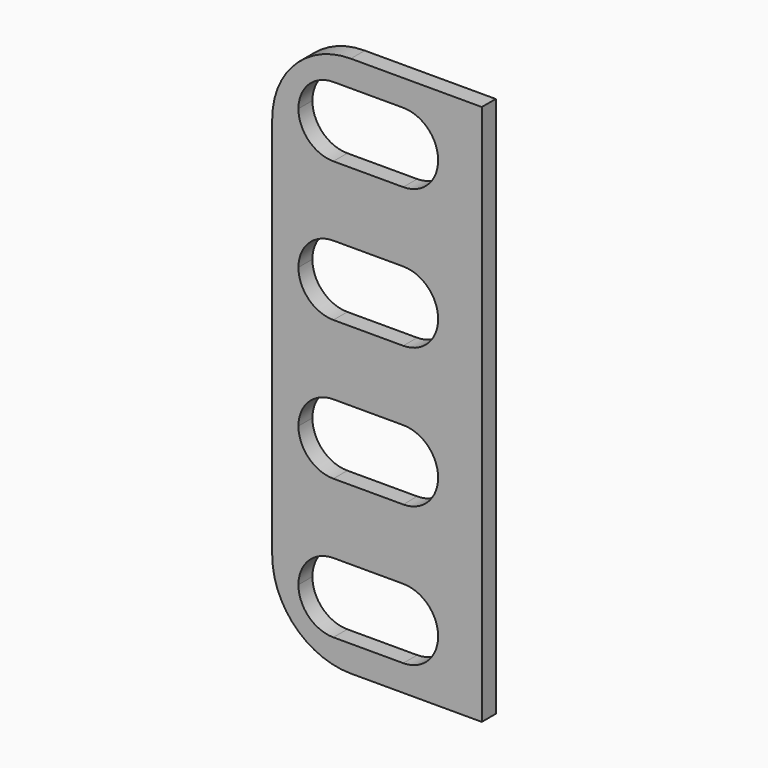
from build123d import *

# Parameters (mm, degrees)
F1_DEPTH = 3.175


with BuildPart() as f1:
    # F0 (on Front) → F1 (new body)
    with BuildSketch(Plane.XZ):
        with BuildLine():
            Line((-4.7625, -49.2125), (19.05, -49.2125))
            Line((19.05, -49.2125), (19.05, 49.2125))
            Line((19.05, 49.2125), (-4.7625, 49.2125))
            ThreePointArc((-4.7625, 49.2125), (-14.865288, 45.027788), (-19.05, 34.925))
            Line((-19.05, 34.925), (-19.05, -34.925))
            ThreePointArc((-19.05, -34.925), (-14.865288, -45.027788), (-4.7625, -49.2125))
        make_face()
        with BuildLine():
            ThreePointArc((11.1125, -38.1), (9.252628, -42.590128), (4.7625, -44.45))
            Line((4.7625, -44.45), (-7.9375, -44.45))
            ThreePointArc((-7.9375, -44.45), (-12.427628, -42.590128), (-14.2875, -38.1))
            ThreePointArc((-14.2875, -38.1), (-12.427628, -33.609872), (-7.9375, -31.75))
            Line((-7.9375, -31.75), (4.7625, -31.75))
            ThreePointArc((4.7625, -31.75), (9.252628, -33.609872), (11.1125, -38.1))
        make_face(mode=Mode.SUBTRACT)
        with BuildLine():
            Line((-7.9375, -6.35), (4.7625, -6.35))
            ThreePointArc((4.7625, -6.35), (9.252628, -8.209872), (11.1125, -12.7))
            ThreePointArc((11.1125, -12.7), (9.252628, -17.190128), (4.7625, -19.05))
            Line((4.7625, -19.05), (-7.9375, -19.05))
            ThreePointArc((-7.9375, -19.05), (-12.427628, -17.190128), (-14.2875, -12.7))
            ThreePointArc((-14.2875, -12.7), (-12.427628, -8.209872), (-7.9375, -6.35))
        make_face(mode=Mode.SUBTRACT)
        with BuildLine():
            Line((-7.9375, 19.05), (4.7625, 19.05))
            ThreePointArc((4.7625, 19.05), (9.252628, 17.190128), (11.1125, 12.7))
            ThreePointArc((11.1125, 12.7), (9.252628, 8.209872), (4.7625, 6.35))
            Line((4.7625, 6.35), (-7.9375, 6.35))
            ThreePointArc((-7.9375, 6.35), (-12.427628, 8.209872), (-14.2875, 12.7))
            ThreePointArc((-14.2875, 12.7), (-12.427628, 17.190128), (-7.9375, 19.05))
        make_face(mode=Mode.SUBTRACT)
        with BuildLine():
            Line((-7.9375, 44.45), (4.7625, 44.45))
            ThreePointArc((4.7625, 44.45), (9.252628, 42.590128), (11.1125, 38.1))
            ThreePointArc((11.1125, 38.1), (9.252628, 33.609872), (4.7625, 31.75))
            Line((4.7625, 31.75), (-7.9375, 31.75))
            ThreePointArc((-7.9375, 31.75), (-12.427628, 33.609872), (-14.2875, 38.1))
            ThreePointArc((-14.2875, 38.1), (-12.427628, 42.590128), (-7.9375, 44.45))
        make_face(mode=Mode.SUBTRACT)
    extrude(amount=F1_DEPTH)


solid = f1.part
